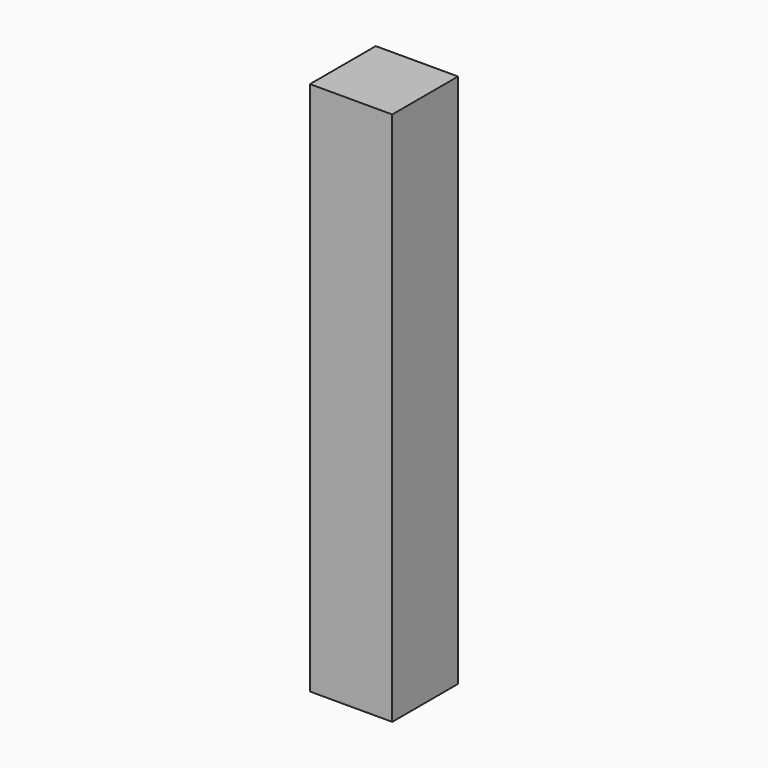
from build123d import *

# Parameters (mm, degrees)
SKETCH_W  = 20
SKETCH_H  = 20
PAD_DEPTH = 130


with BuildPart() as part:
    # Sketch → Pad (new body)
    with BuildSketch(Plane.XY):
        with Locations((10, -10)):
            Rectangle(SKETCH_W, SKETCH_H)
    extrude(amount=PAD_DEPTH)


solid = part.part
